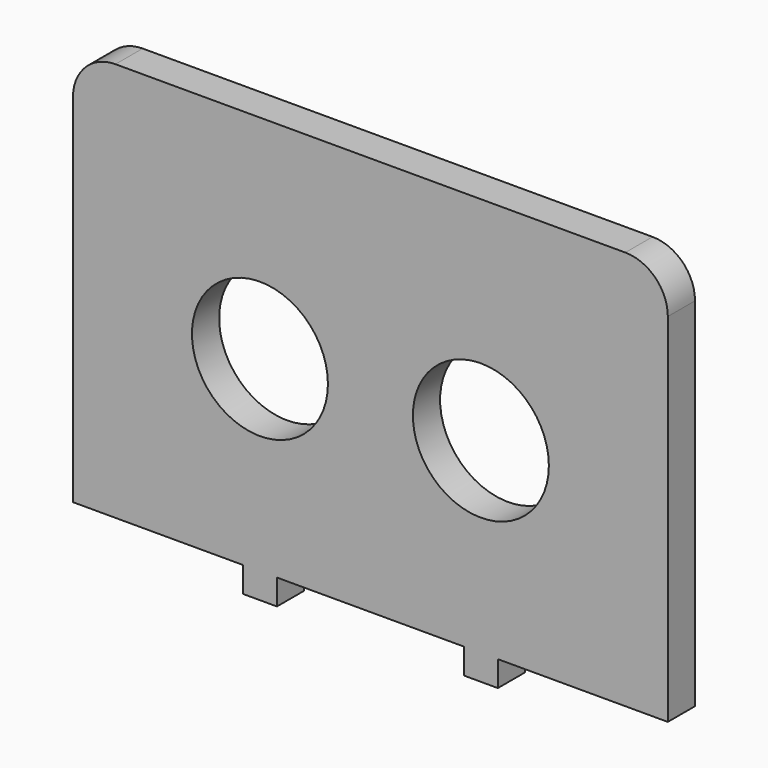
from build123d import *

# Parameters (mm, degrees)
F0_R     = 8
F1_DEPTH = 4


with BuildPart() as f1:
    # F0 (on Front) → F1 (new body)
    with BuildSketch(Plane.XZ):
        with BuildLine():
            Line((30, 25), (-30, 25))
            ThreePointArc((-30, 25), (-33.535534, 23.535534), (-35, 20))
            Line((-35, 20), (-35, -22))
            Line((-35, -22), (-15, -22))
            Line((-15, -22), (-15, -25))
            Line((-15, -25), (-11, -25))
            Line((-11, -25), (-11, -22))
            Line((-11, -22), (11, -22))
            Line((11, -22), (11, -25))
            Line((11, -25), (15, -25))
            Line((15, -25), (15, -22))
            Line((15, -22), (35, -22))
            Line((35, -22), (35, 20))
            ThreePointArc((35, 20), (33.535534, 23.535534), (30, 25))
        make_face()
        with Locations((-13, 0)):
            Circle(F0_R, mode=Mode.SUBTRACT)
        with Locations((13, 0)):
            Circle(F0_R, mode=Mode.SUBTRACT)
    extrude(amount=F1_DEPTH)


solid = f1.part
